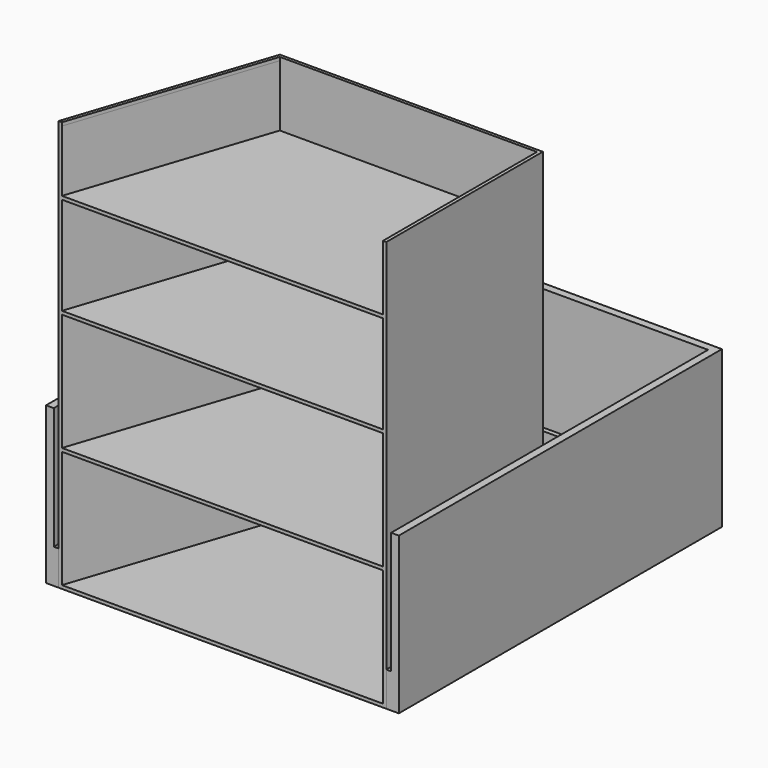
from build123d import *

# Parameters (mm, degrees)
SKETCH_W        = 850.9
SKETCH_H        = 508
PAD_DEPTH       = 1066.8
SKETCH003_W     = 833.4375
SKETCH003_H     = 304.8
SKETCH003_H_2   = 254
SKETCH003_H_3   = 159.54375
POCKET_DEPTH    = 500
POCKET001_DEPTH = 1066.801
PAD003_DEPTH    = 1066.8
POCKET002_DEPTH = 8.73125
PAD001_DEPTH    = 406.4
PAD002_DEPTH    = 89.54


with BuildPart() as cabinet:
    # Sketch → Pad (new body)
    with BuildSketch(Plane.XY):
        with Locations((-437.99, 254)):
            Rectangle(SKETCH_W, SKETCH_H)
    extrude(amount=PAD_DEPTH)

    # Sketch003 (on Face3 of Pad) → Pocket (cut)
    with BuildSketch(Plane.XZ):
        with Locations((-437.99, 161.13125)):
            Rectangle(SKETCH003_W, SKETCH003_H)
        with Locations((-437.99, 474.6625)):
            Rectangle(SKETCH003_W, SKETCH003_H)
        with Locations((-437.99, 762.79375)):
            Rectangle(SKETCH003_W, SKETCH003_H_2)
        with Locations((-437.99, 978.296875)):
            Rectangle(SKETCH003_W, SKETCH003_H_3)
    extrude(amount=-POCKET_DEPTH, mode=Mode.SUBTRACT)

    # Sketch004 (on Face5 of Pocket) → Pocket001 (cut, through all)
    with BuildSketch(Plane.XY.offset(1066.8)):
        Polygon((-863.44, 0), (-695.157616, 508), (-863.44, 508), align=None)
    extrude(amount=-POCKET001_DEPTH, mode=Mode.SUBTRACT)

    # Sketch005 (on Face4 of Pocket001) → Pad003 (join)
    with BuildSketch(Plane.XY.offset(1066.8)):
        Polygon((-854.70875, 0), (-686.426366, 508), (-695.157616, 508), (-863.44, 0), align=None)
    extrude(amount=-PAD003_DEPTH)

    # Sketch006 (on Face4 of Pad003) → Pocket002 (cut)
    with BuildSketch(Plane.XY.offset(1066.8)):
        Polygon((-689.076483, 500), (-854.70875, 0), (-21.27125, 0), (-21.27125, 500), align=None)
    extrude(amount=-POCKET002_DEPTH, mode=Mode.SUBTRACT)


with BuildPart() as pantry:
    # Sketch001 → Pad001 (new body)
    with BuildSketch(Plane.XY):
        Polygon((-875.97, 0), (-875.97, 1028.7), (0, 1028.7), (0, 0), (20, 0), (20, 1048.7), (-895.97, 1048.7), (-895.97, 0), align=None)
    extrude(amount=PAD001_DEPTH)

    # Sketch002 → Pad002 (join)
    with BuildSketch(Plane.XY):
        Polygon((0, 0), (-12.54, 0), (-12.54, 1016.16), (-863.43, 1016.16), (-863.43, 0), (-875.97, 0), (-875.97, 1016.16), (-875.97, 1028.7), (-12.54, 1028.7), (0, 1028.7), align=None)
    extrude(amount=PAD002_DEPTH)


solid = Compound([cabinet.part, pantry.part])
